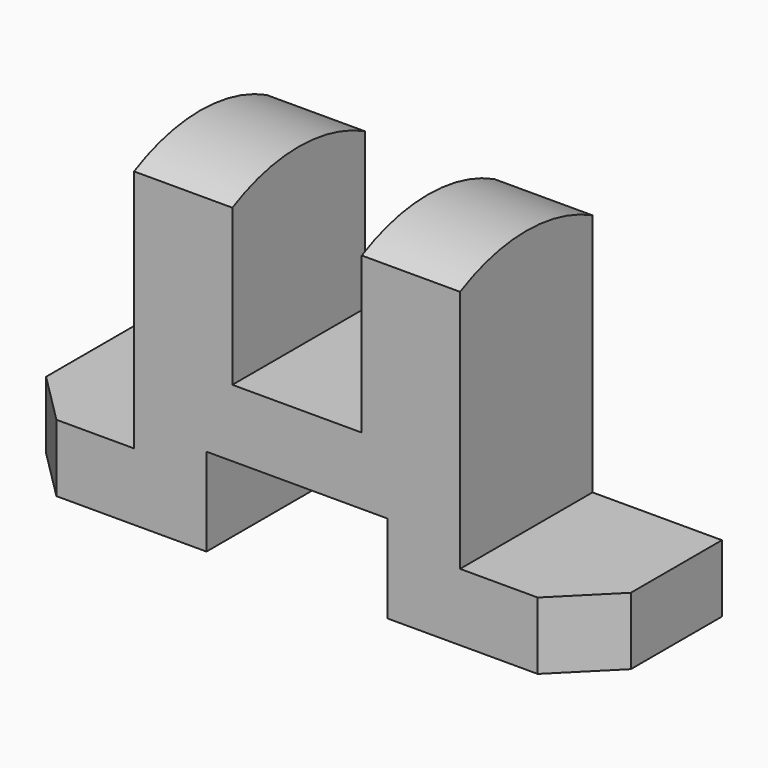
from build123d import *

# Parameters (mm, degrees)
F1_DEPTH = 32
F2_R     = 43.740238
F2_R_2   = 35
F3_DEPTH = 88.001
F4_SIZE2 = 10
F4_SIZE  = 10


with BuildPart() as f1:
    # F0 (on Front) → F1 (new body)
    with BuildSketch(Plane.XZ):
        Polygon((-12.5, 32), (-31.5, 32), (-31.5, -19), (-56.5, -19), (-56.5, -32), (-17.5, -32), (-17.5, -15), (17.5, -15), (17.5, -32), (56.5, -32), (56.5, -19), (31.5, -19), (31.5, 32), (12.5, 32), (12.5, -2), (-12.5, -2), align=None)
    extrude(amount=F1_DEPTH)

    # F2 (on face) → F3 (cut, through all)
    with BuildSketch(Plane.YZ.offset(31.5)):
        with Locations((-16, -3)):
            Circle(F2_R)
        with Locations((-16, -3)):
            Circle(F2_R_2, mode=Mode.SUBTRACT)
    extrude(amount=-F3_DEPTH, mode=Mode.SUBTRACT)

    # F4
    f4_edges = [f1.edges().sort_by_distance(p)[0] for p in [
        (-56.5, -32, -25.5),
        (56.5, -32, -25.5),
    ]]
    chamfer(f4_edges, length=F4_SIZE, length2=F4_SIZE2)


solid = f1.part
